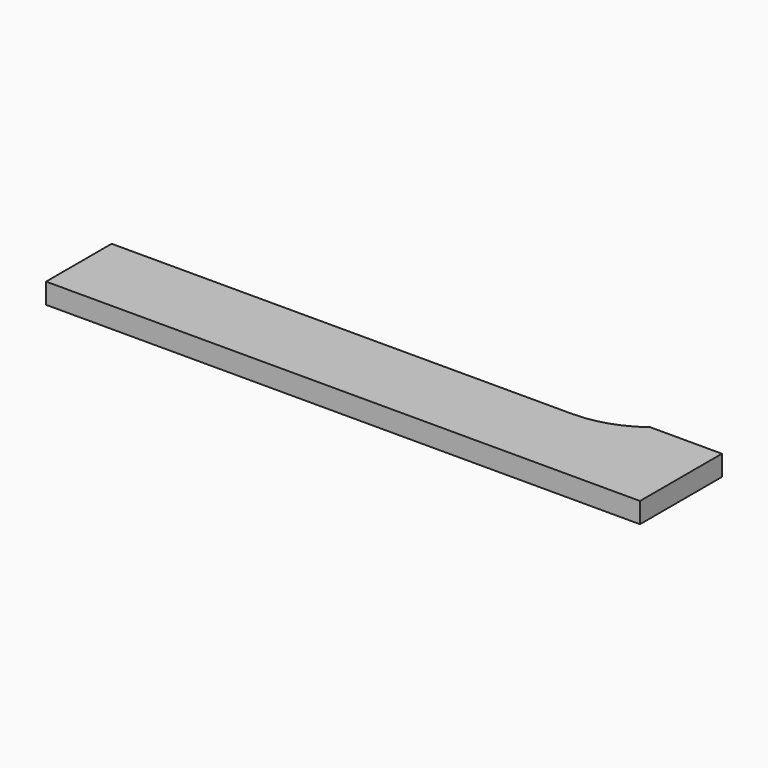
from build123d import *

# Parameters (mm, degrees)
PAD_DEPTH = 5


with BuildPart() as part:
    # Sketch → Pad (new body)
    with BuildSketch(Plane.XY):
        with BuildLine():
            Line((127.5, 25), (145, 25))
            Line((145, 25), (145, 0))
            Line((145, 0), (0, 0))
            Line((0, 0), (0, 20))
            Line((0, 20), (112.5, 20))
            ThreePointArc((112.5, 20), (120.405694, 21.282918), (127.5, 25))
        make_face()
    extrude(amount=PAD_DEPTH)


solid = part.part
